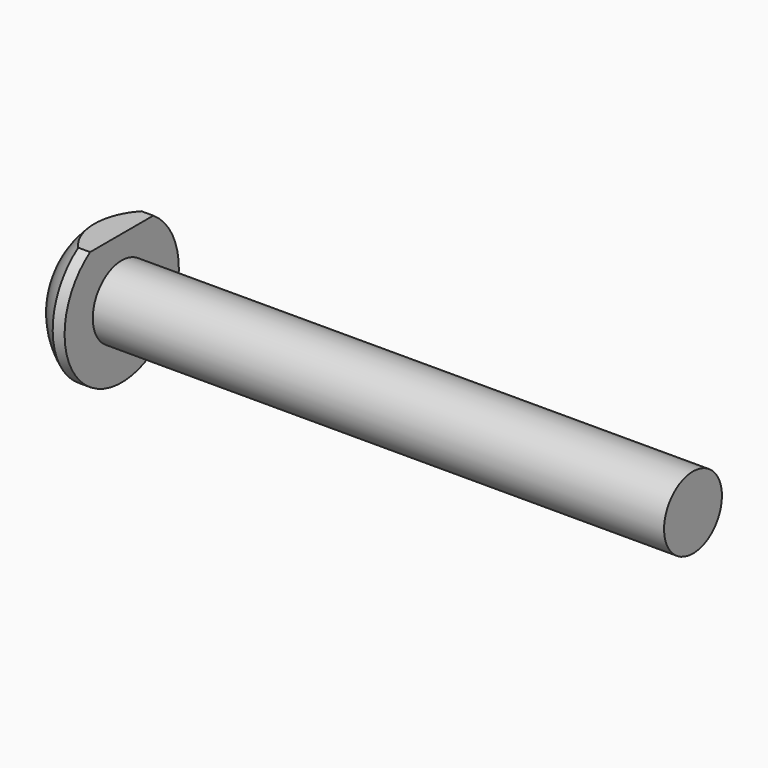
from build123d import *

# Parameters (mm, degrees)
F0_W     = 76.2
F0_H     = 4.826
F2_W     = 10.530284
F2_H     = 4.986605
F3_DEPTH = 25.4


with BuildPart() as f1:
    # F0 (on Front) → F1 (revolve)
    with BuildSketch(Plane.XZ):
        Polygon((-422.80503, 234.378874), (-422.80503, 239.204874), (-422.80503, 243.903874), (-424.39253, 243.903874), (-424.39253, 234.378874), align=None)
        with Locations((-384.70503, 236.791874)):
            Rectangle(F0_W, F0_H)
        with BuildLine():
            Line((-424.39253, 234.378874), (-424.39253, 243.903874))
            ThreePointArc((-424.39253, 243.903874), (-426.119453, 242.623521), (-427.56753, 241.034608))
            Line((-427.56753, 241.034608), (-427.56753, 234.378874))
            Line((-427.56753, 234.378874), (-424.39253, 234.378874))
        make_face()
    revolve(axis=Axis((-387.08628, 0, 234.378874), (1, 0, 0)))

    # F2 (on face) → F3 (cut)
    with BuildSketch(Plane.YZ.offset(-422.80503)):
        with Locations((0, 244.809676)):
            Rectangle(F2_W, F2_H)
    extrude(amount=-F3_DEPTH, mode=Mode.SUBTRACT)


solid = f1.part
